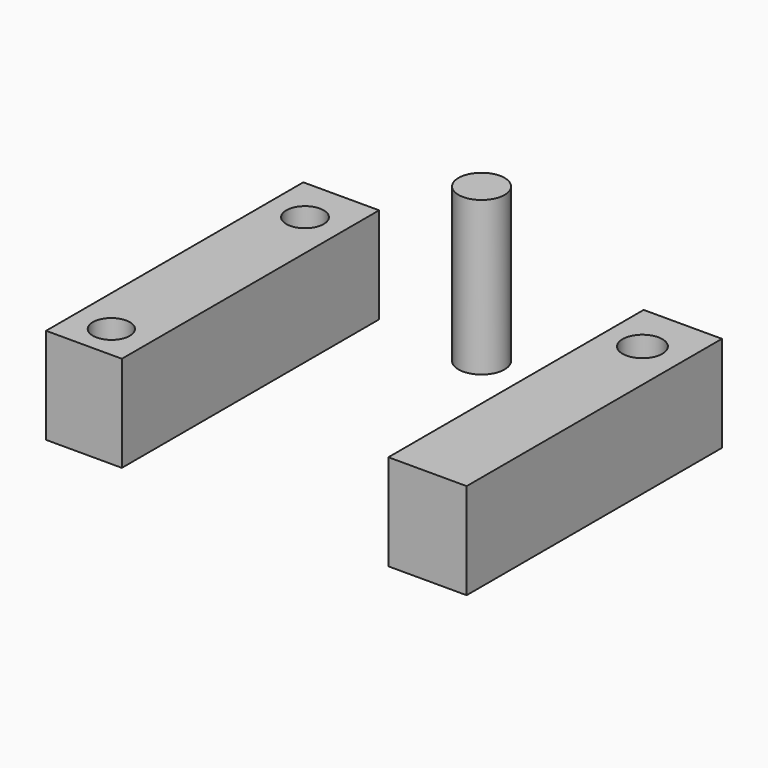
from build123d import *

# Parameters (mm, degrees)
F0_W     = 20.3636325896
F0_H     = 83.0454565585
F0_R     = 5.1796259742
F2_DEPTH = 25
F0_W_2   = 19.7272747755
F0_H_2   = 83.6818218231
F0_R_2   = 4.8149653707
F0_R_3   = 4.867
F1_R     = 6
F3_DEPTH = 40
F4_DEPTH = 25


with BuildPart() as f2:
    # F0 (on Top) → F2 (new body)
    with BuildSketch(Plane.XY):
        with Locations((41.0454552621, 7.9527366906)):
            Rectangle(F0_W, F0_H)
        with Locations((40.727276355, 36.7481932044)):
            Circle(F0_R, mode=Mode.SUBTRACT)
    extrude(amount=F2_DEPTH)

    # F0 (on Top) → F4 (cut, symmetric)
    with BuildSketch(Plane.XY):
        with Locations((-48.3636371791, 38.3391045034)):
            Circle(F0_R_3)
        with Locations((-48.3636371791, -24.6609002352)):
            Circle(F0_R_2)
        with Locations((40.727276355, 36.7481932044)):
            Circle(F0_R)
    extrude(amount=F4_DEPTH, both=True, mode=Mode.SUBTRACT)


with BuildPart() as f2b:
    # F0 (on Top) → F2, piece 2 (new body)
    with BuildSketch(Plane.XY):
        with Locations((-48.3636371791, 8.270919323)):
            Rectangle(F0_W_2, F0_H_2)
        with Locations((-48.3636371791, -24.6609002352)):
            Circle(F0_R_2, mode=Mode.SUBTRACT)
        with Locations((-48.3636371791, 38.3391045034)):
            Circle(F0_R_3, mode=Mode.SUBTRACT)
    extrude(amount=F2_DEPTH)


with BuildPart() as f3:
    # F1 (on Top) → F3 (new body)
    with BuildSketch(Plane.XY):
        with Locations((-10.8181824908, 48.8391034305)):
            Circle(F1_R)
    extrude(amount=F3_DEPTH)


solid = Compound([f2.part, f2b.part, f3.part])
